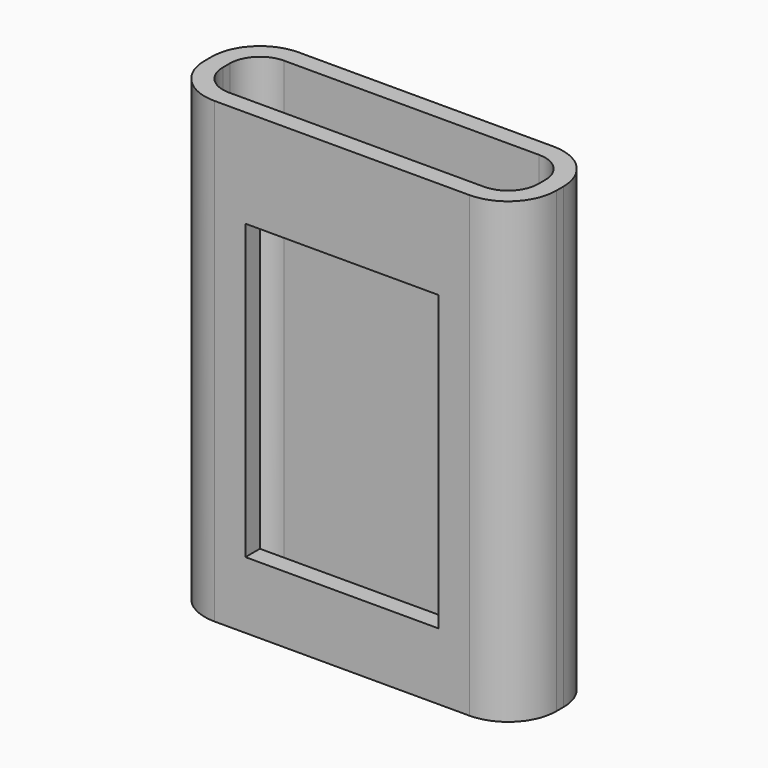
from build123d import *

# Parameters (mm, degrees)
F1_DEPTH = 38
F2_T     = -1.5
F3_R     = 1.5
F4_DEPTH = 25
F5_W     = 16.002862
F5_H     = 24.337668
F6_DEPTH = 3


with BuildPart() as f1:
    # F0 (on Top) → F1 (new body)
    with BuildSketch(Plane.XY):
        with BuildLine():
            ThreePointArc((14.575, 0.36), (13.403427, 3.188427), (10.575, 4.36))
            Line((10.575, 4.36), (-10.575, 4.36))
            ThreePointArc((-10.575, 4.36), (-13.403427, 3.188427), (-14.575, 0.36))
            Line((-14.575, 0.36), (-14.575, -0.36))
            ThreePointArc((-14.575, -0.36), (-13.403427, -3.188427), (-10.575, -4.36))
            Line((-10.575, -4.36), (10.575, -4.36))
            ThreePointArc((10.575, -4.36), (13.403427, -3.188427), (14.575, -0.36))
            Line((14.575, -0.36), (14.575, 0.36))
        make_face()
    extrude(amount=F1_DEPTH)

    # F2
    f2_openings = [f1.faces().sort_by_distance(p)[0] for p in [
        (0, 0, 38),
    ]]
    offset(amount=F2_T, openings=f2_openings)

    # F3 (on Top) → F4 (cut)
    with BuildSketch(Plane.XY):
        Circle(F3_R)
    extrude(amount=F4_DEPTH, mode=Mode.SUBTRACT)

    # F5 (on face) → F6 (cut)
    with BuildSketch(Plane.XZ.offset(4.36)):
        with Locations((0, 17.704612)):
            Rectangle(F5_W, F5_H)
    extrude(amount=-F6_DEPTH, mode=Mode.SUBTRACT)


solid = f1.part
